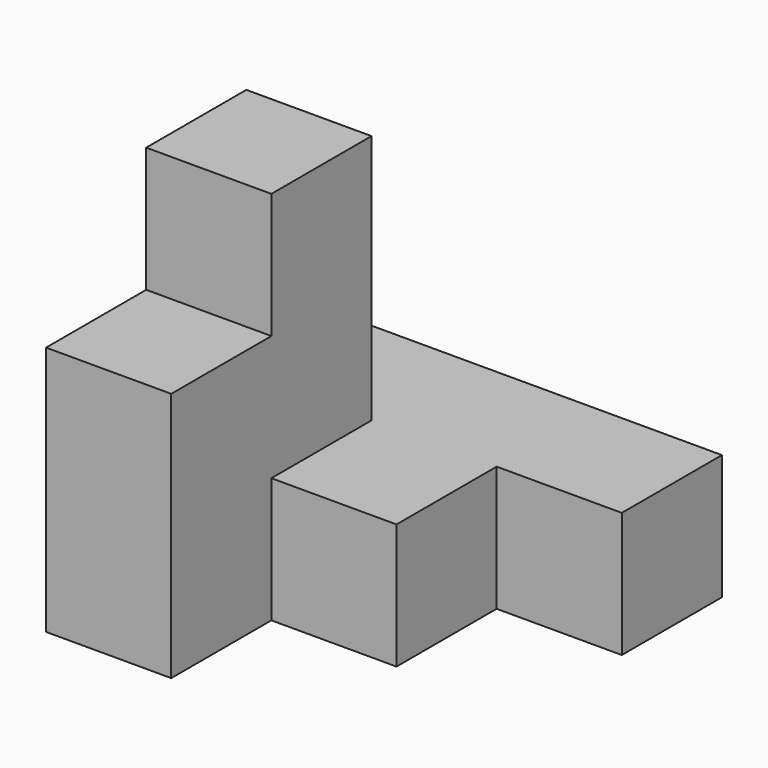
from build123d import *

# Parameters (mm, degrees)
F1_DEPTH = 25.4
F0_W     = 25.4
F0_H     = 25.4
F2_DEPTH = 76.2
F3_DEPTH = 50.8


with BuildPart() as f1:
    # F0 (on Top) → F1 (new body)
    with BuildSketch(Plane.XY):
        Polygon((0, 25.4), (0, 0), (25.4, 0), (25.4, 25.4), (50.8, 25.4), (50.8, 50.8), (-25.4, 50.8), (-25.4, 25.4), align=None)
    extrude(amount=F1_DEPTH)

    # F0 (on Top) → F2 (join)
    with BuildSketch(Plane.XY):
        with Locations((-12.7, 12.7)):
            Rectangle(F0_W, F0_H)
    extrude(amount=F2_DEPTH)

    # F0 (on Top) → F3 (join)
    with BuildSketch(Plane.XY):
        with Locations((-12.7, -12.7)):
            Rectangle(F0_W, F0_H)
    extrude(amount=F3_DEPTH)


solid = f1.part
